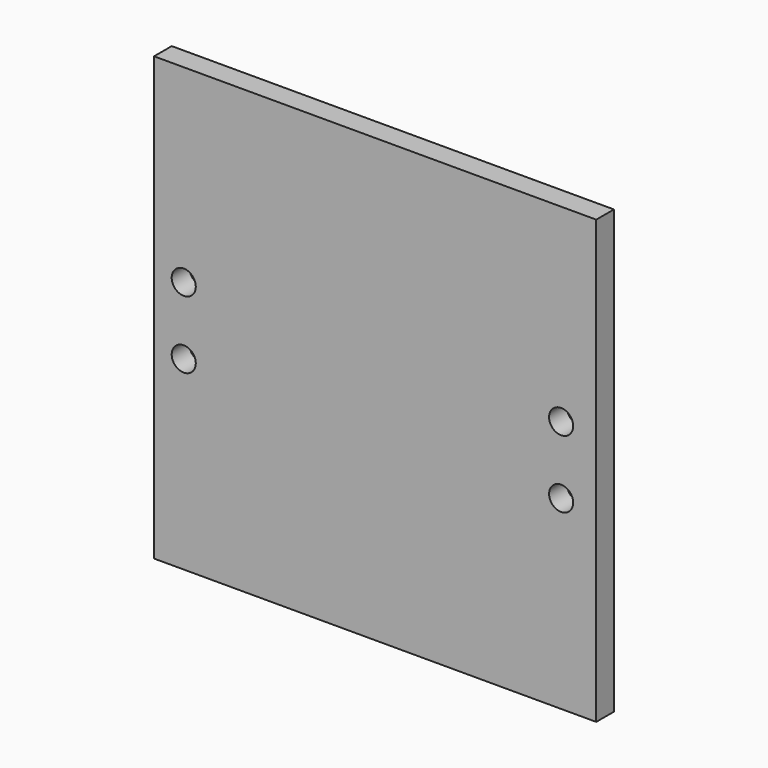
from build123d import *

# Parameters (mm, degrees)
F0_W     = 101.6
F0_H     = 101.6
F0_R     = 2.7686
F1_DEPTH = 5.08
F2_DEPTH = 5.08


with BuildPart() as f1:
    # F0 (on Front) → F1 (new body)
    with BuildSketch(Plane.XZ):
        with Locations((12.265351, 15.24087)):
            Rectangle(F0_W, F0_H)
        with Locations((-31.716071, 7.042752)):
            Circle(F0_R, mode=Mode.SUBTRACT)
        with Locations((54.997087, 7.042752)):
            Circle(F0_R, mode=Mode.SUBTRACT)
        with Locations((-31.716071, 22.562152)):
            Circle(F0_R, mode=Mode.SUBTRACT)
        with Locations((54.997087, 22.562152)):
            Circle(F0_R, mode=Mode.SUBTRACT)
    extrude(amount=F1_DEPTH)

    # F0 (on Front) → F2 (join)
    with BuildSketch(Plane.XZ):
        with Locations((12.265351, 15.24087)):
            Rectangle(F0_W, F0_H)
        with Locations((-31.716071, 7.042752)):
            Circle(F0_R, mode=Mode.SUBTRACT)
        with Locations((54.997087, 7.042752)):
            Circle(F0_R, mode=Mode.SUBTRACT)
        with Locations((-31.716071, 22.562152)):
            Circle(F0_R, mode=Mode.SUBTRACT)
        with Locations((54.997087, 22.562152)):
            Circle(F0_R, mode=Mode.SUBTRACT)
    extrude(amount=F2_DEPTH)


solid = f1.part
